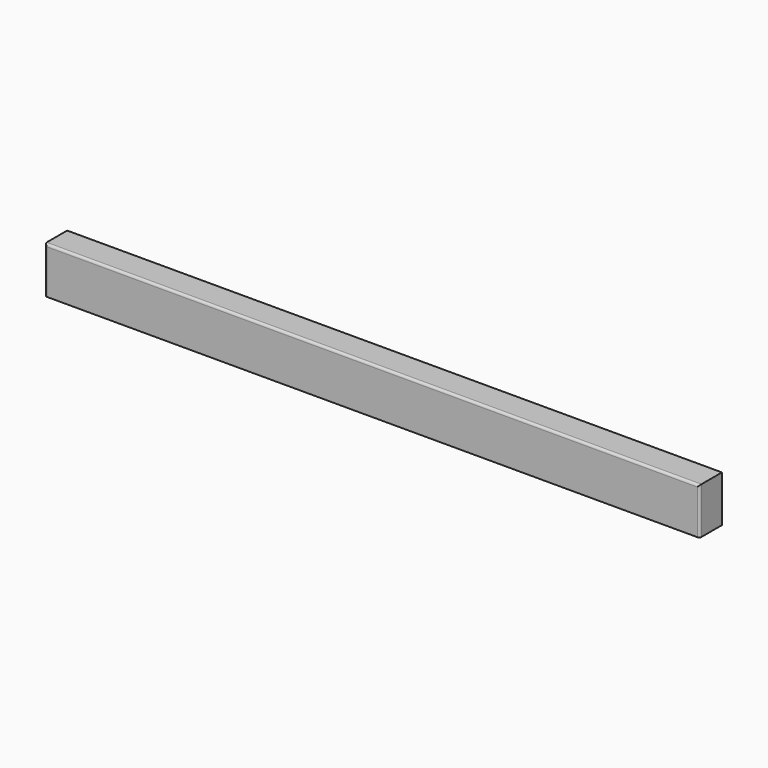
from build123d import *

# Parameters (mm, degrees)
F0_W     = 1790.7
F0_H     = 127
F1_DEPTH = 38.1
F2_R     = 6.35


with BuildPart() as f1:
    # F0 (on Front) → F1 (new body, symmetric)
    with BuildSketch(Plane.XZ):
        Rectangle(F0_W, F0_H)
    extrude(amount=F1_DEPTH, both=True)

    # F2
    f2_edges = [f1.edges().sort_by_distance(p)[0] for p in [
        (0, -38.1, 63.5),
        (895.35, -38.1, 0),
        (-895.35, -38.1, 0),
    ]]
    fillet(f2_edges, radius=F2_R)


solid = f1.part
